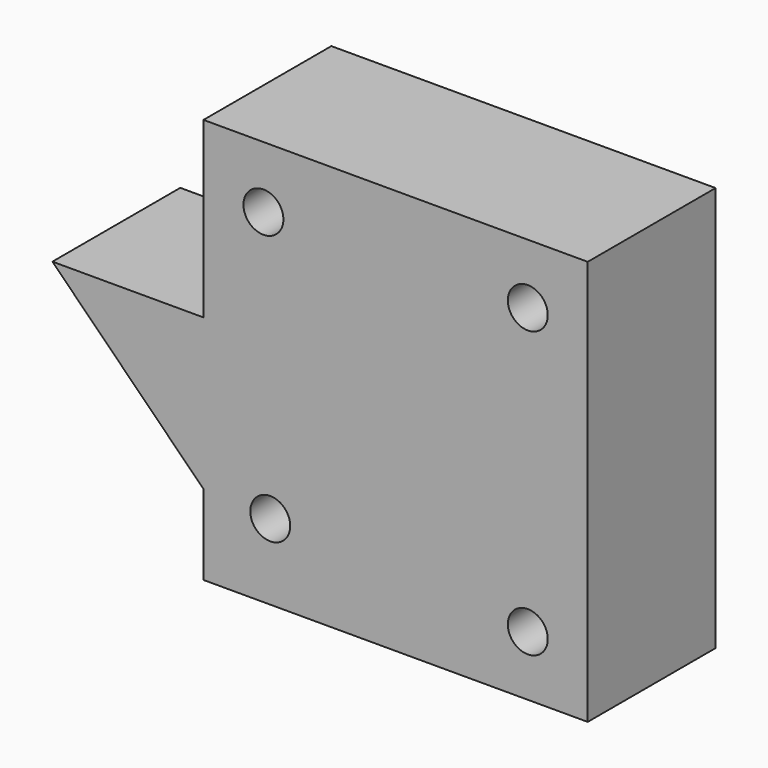
from build123d import *

# Parameters (mm, degrees)
F0_W     = 96.166272
F0_H     = 101.375278
F1_DEPTH = 40
F3_DEPTH = 40
F4_R     = 5
F5_DEPTH = 40.001


with BuildPart() as f1:
    # F0 (on Front) → F1 (new body)
    with BuildSketch(Plane.XZ):
        with Locations((-7.412447, 4.371865)):
            Rectangle(F0_W, F0_H)
    extrude(amount=F1_DEPTH)

    # F2 (on face) → F3 (join)
    with BuildSketch(Plane.XZ.offset(40)):
        Polygon((-93.307483, 11.53077), (-55.495583, -26.281131), (-55.495583, 11.53077), align=None)
    extrude(amount=-F3_DEPTH)

    # F4 (on face) → F5 (cut, through all)
    with BuildSketch(Plane(origin=(0, 0, 0), x_dir=(-1, 0, 0), z_dir=(0, 1, 0))):
        with Locations((38.787491, -27.369825)):
            Circle(F4_R)
        with Locations((-25.670689, -31.315774)):
            Circle(F4_R)
        with Locations((-25.670689, 40.059504)):
            Circle(F4_R)
        with Locations((40.495583, 39.617617)):
            Circle(F4_R)
    extrude(amount=-F5_DEPTH, mode=Mode.SUBTRACT)


solid = f1.part
